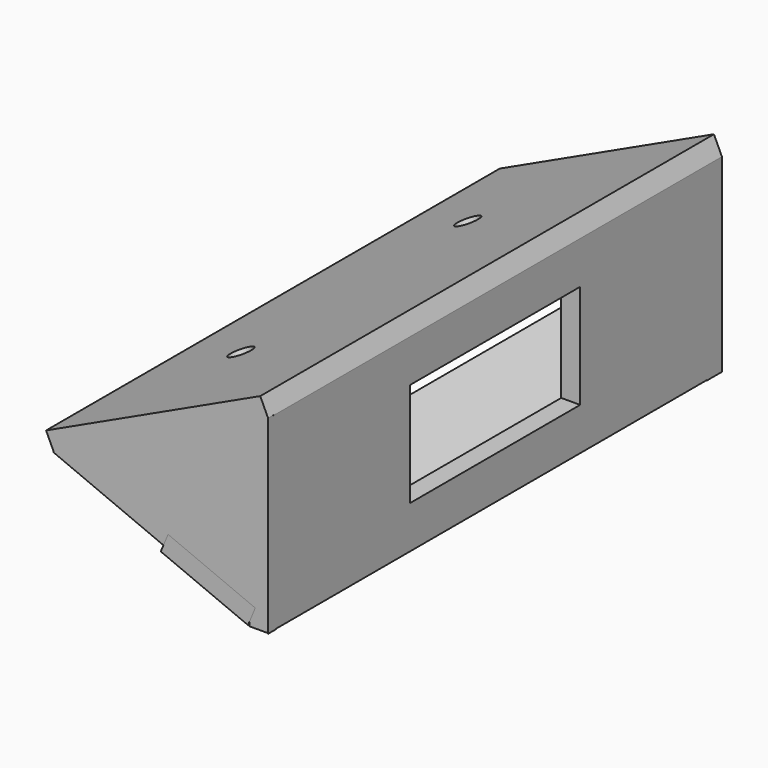
from build123d import *

# Parameters (mm, degrees)
F7_DEPTH  = 1.27
F8_DEPTH  = 1.27
F0_W      = 76.2
F0_H      = 25.4
F0_W_2    = 28.575
F0_H_2    = 13.97
F9_DEPTH  = 2.54
F2_W      = 31.75
F2_H      = 76.2
F10_DEPTH = 2.54
F11_DEPTH = 2.54
F12_D     = 3.048
F14_W     = 12.7
F14_H     = 76.2
F15_DEPTH = 2.54


with BuildPart() as f7:
    # F6 (on offset) → F7 (new body)
    with BuildSketch(Plane.XZ.offset(38.1)):
        Polygon((0, -12.7621218562), (0, 12.7376662567), (-28.863908723, -0.6782670389), align=None)
    extrude(amount=-F7_DEPTH)

    # F6 (on offset) → F8 (join)
    with BuildSketch(Plane.XZ.offset(38.1)):
        Polygon((0, -12.7621218562), (0, 12.7376662567), (-28.863908723, -0.6782670389), align=None)
    extrude(amount=-F8_DEPTH)

    # F0 (on Right) → F9 (join)
    with BuildSketch(Plane.YZ):
        Rectangle(F0_W, F0_H)
        Rectangle(F0_W_2, F0_H_2, mode=Mode.SUBTRACT)
    extrude(amount=-F9_DEPTH)

    # F2 (on line) → F10 (join)
    with BuildSketch(Plane(origin=(-4.8643822138, 0, 10.4317013215), x_dir=(0.906307787, 0, 0.4226182617), z_dir=(0.4226182617, 0, -0.906307787))):
        with Locations((-10.5077480759, 0)):
            Rectangle(F2_W, F2_H)
    extrude(amount=-F10_DEPTH)

    # F5 (on offset) → F11 (join)
    with BuildSketch(Plane.XZ.offset(-38.1)):
        Polygon((0, -12.7577763051), (0, 12.6607520506), (-28.8317464292, -0.7427155506), align=None)
    extrude(amount=F11_DEPTH)

    # F12 (through all)
    with Locations(Plane(origin=(-4.8643822138, 0, 10.4317013215), x_dir=(0.906307787, 0, 0.4226182617), z_dir=(0.4226182617, 0, -0.906307787))):
        with Locations((-14.3194701523, 19.05), (-14.3194701523, -19.05)):
            Hole(F12_D / 2)


with BuildPart() as f15:
    # F14 (on face) → F15 (new body)
    with BuildSketch(Plane(origin=(-4.8965176408, 0, -11.7150507734), x_dir=(0.9226500445, 0, -0.3856382961), z_dir=(-0.3856382961, 0, -0.9226500445))):
        with Locations((-3.9923936394, 0)):
            Rectangle(F14_W, F14_H)
    extrude(amount=-F15_DEPTH)


solid = Compound([f7.part, f15.part])
